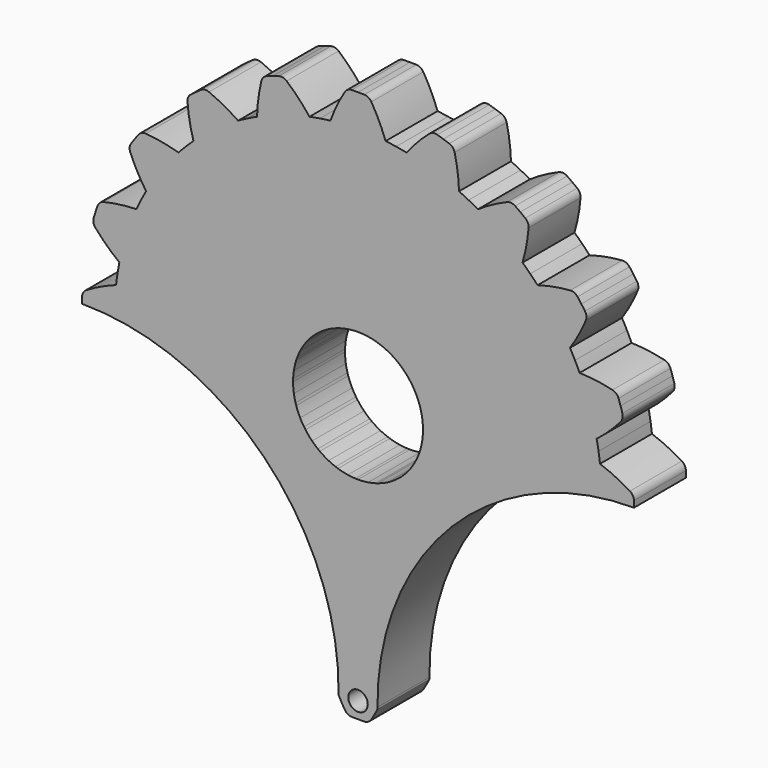
from build123d import *

# Parameters (mm, degrees)
F1_DEPTH = 10
F2_COUNT = 20
F0_R     = 1.5
F3_DEPTH = 25


with BuildPart() as f1:
    # F0 (on Front) → F1 (new body)
    with BuildSketch(Plane.XZ):
        with BuildLine():
            ThreePointArc((0.3925981576, 9.9922903624), (0.9801714033, 9.9518472667), (1.5643446504, 9.876883406))
            Line((1.5643446504, 9.876883406), (5.866292439, 37.0383127723))
            ThreePointArc((5.866292439, 37.0383127723), (5.0569098853, 37.157471152), (4.2451205163, 37.2589445879))
            ThreePointArc((4.2451205163, 37.2589445879), (3.2638915205, 39.6187420421), (2.0468702967, 41.8660323454))
            ThreePointArc((2.0468702967, 41.8660323454), (1.5862366905, 42.3155461159), (0.9664334279, 42.4890104195))
            ThreePointArc((0.9664334279, 42.4890104195), (0.4832479543, 42.4972525161), (0, 42.5))
            ThreePointArc((0, 42.5), (-0.4832479543, 42.4972525161), (-0.9664334279, 42.4890104195))
            ThreePointArc((-0.9664334279, 42.4890104195), (-1.5862366905, 42.3155461159), (-2.0468702967, 41.8660323454))
            ThreePointArc((-2.0468702967, 41.8660323454), (-3.2638915205, 39.6187420421), (-4.2451205163, 37.2589445879))
            ThreePointArc((-4.2451205163, 37.2589445879), (-5.0569098853, 37.157471152), (-5.866292439, 37.0383127723))
            Line((-5.866292439, 37.0383127723), (-1.5643446504, 9.876883406))
            ThreePointArc((-1.5643446504, 9.876883406), (-0.7845909573, 9.9691733373), (0, 10))
            Line((0, 10), (0.3925981576, 9.9922903624))
        make_face()
    extrude(amount=F1_DEPTH)

    # F2: F1 ×20 about axis
    f2_axis = Axis((0, 0, 0), (0, 1, 0))


with BuildPart() as f1_1:
    add(f1.part)
    for i in range(1, F2_COUNT):
        add(f1.part.rotate(f2_axis, i * 360 / F2_COUNT))

    # F0 (on Front) → F3 (cut)
    with BuildSketch(Plane.XZ):
        with BuildLine():
            ThreePointArc((3.89e-08, -43), (-2.1607290301, -42.0811655528), (-2.9978898829, -39.8875))
            ThreePointArc((-2.9978898829, -39.8875), (-14.431203446, -11.7063738677), (-42.5, 0))
            ThreePointArc((-42.5, 0), (-30.2293317686, -30.3749209614), (3.89e-08, -43))
        make_face()
        with BuildLine():
            ThreePointArc((2.9978898829, -39.8875), (2.1607290571, -42.0811655248), (3.89e-08, -43))
            ThreePointArc((3.89e-08, -43), (30.2293317959, -30.3749209337), (42.5, 0))
            ThreePointArc((42.5, 0), (14.431203446, -11.7063738677), (2.9978898829, -39.8875))
        make_face()
        with Locations((0, -40)):
            Circle(F0_R)
    extrude(amount=F3_DEPTH, mode=Mode.SUBTRACT)


solid = f1_1.part
